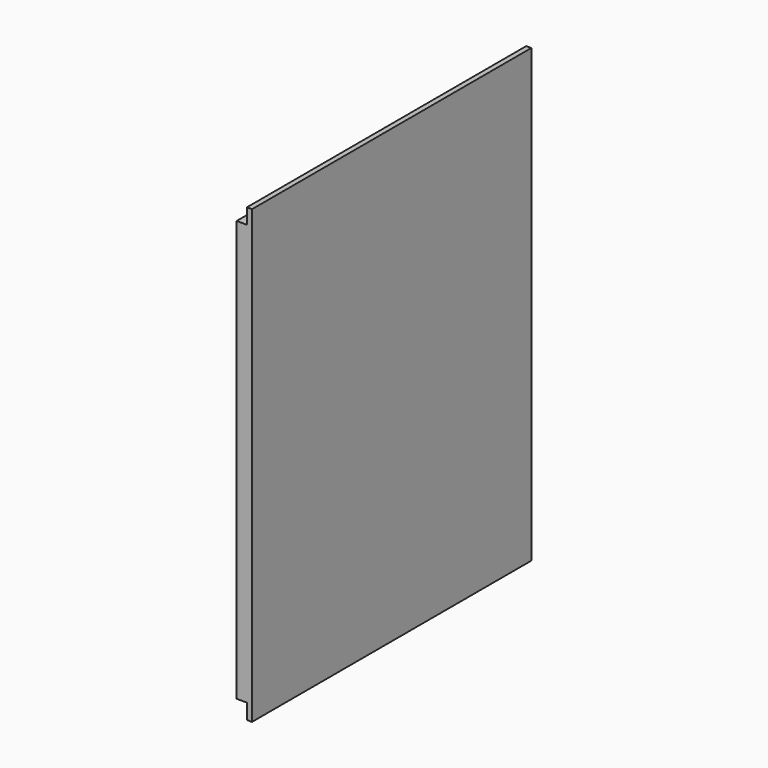
from build123d import *

# Parameters (mm, degrees)
SKETCH056_W             = 410
SKETCH056_H             = 530
PAD021_DEPTH            = 18
SKETCH057_W             = 410
SKETCH057_H             = 18
POCKET034_DEPTH         = 12
SKETCH058_W             = 18
SKETCH058_H             = 530
POCKET035_DEPTH         = 12
BODY020_ROLL_ANGLE      = 90
BODY020_PLACEMENT_ANGLE = -90


with BuildPart() as part:
    # Sketch056 → Pad021 (new body)
    with BuildSketch(Plane.XY):
        with Locations((0, 265)):
            Rectangle(SKETCH056_W, SKETCH056_H)
    extrude(amount=PAD021_DEPTH)

    # Sketch057 (on Face6 of Pad021) → Pocket034 (cut)
    with BuildSketch(Plane.XY.offset(18)):
        with Locations((0, 9)):
            Rectangle(SKETCH057_W, SKETCH057_H)
        with Locations((0, 521)):
            Rectangle(SKETCH057_W, SKETCH057_H)
    extrude(amount=-POCKET034_DEPTH, mode=Mode.SUBTRACT)

    # Sketch058 (on Face9 of Pocket034) → Pocket035 (cut)
    with BuildSketch(Plane.XY.offset(18)):
        with Locations((-196, 265)):
            Rectangle(SKETCH058_W, SKETCH058_H)
    extrude(amount=-POCKET035_DEPTH, mode=Mode.SUBTRACT)


with BuildPart() as part_1:
    # Body020 roll: moved
    add(part.part.rotate(Axis((0, 0, 0), (1, 0, 0)), BODY020_ROLL_ANGLE))


with BuildPart() as part_2:
    # Body020 placement: moved
    add(part_1.part.moved(Location((263, 205, 0))).rotate(Axis((263, 205, 0), (0, 0, 1)), BODY020_PLACEMENT_ANGLE))


solid = part_2.part
